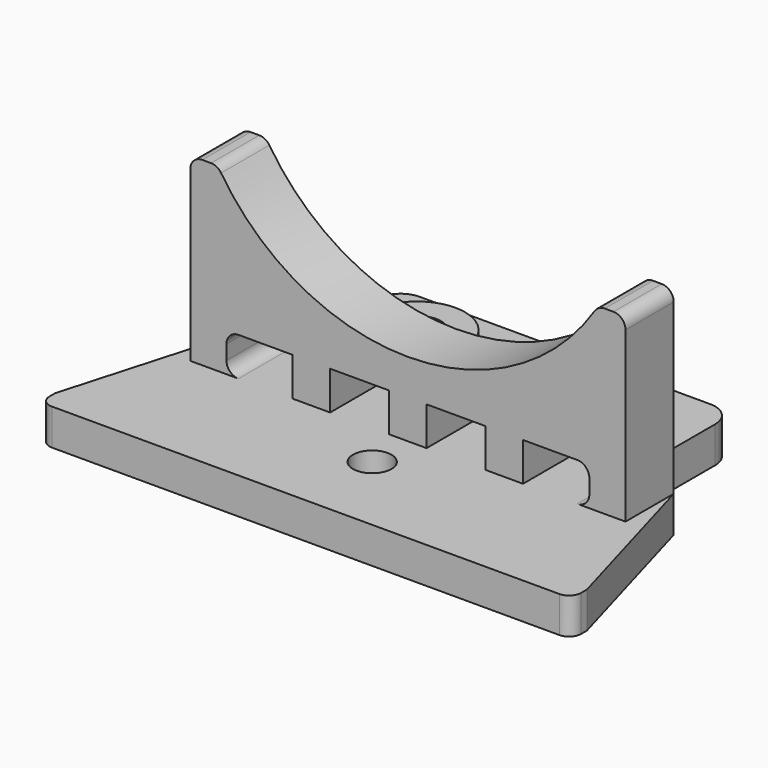
from build123d import *

# Parameters (mm, degrees)
CYLINDER006_R                   = 1.6
CYLINDER006_DEPTH               = 10
BOX007_W                        = 3.1
BOX007_H                        = 5
BOX007_DEPTH                    = 8
BOX009_W                        = 3.1
BOX009_H                        = 5
BOX009_DEPTH                    = 9
BOX010_W                        = 3.1
BOX010_H                        = 5
BOX010_DEPTH                    = 9
BOX012_W                        = 31
BOX012_H                        = 6
BOX012_DEPTH                    = 6
CYLINDER004_R                   = 21.5
CYLINDER004_DEPTH               = 10
BOX008_W                        = 30.1
BOX008_H                        = 5
BOX008_DEPTH                    = 18
FILLET001003_R                  = 1
FILLET001007_R                  = 1
CYLINDER003_R                   = 18.5
CYLINDER003_DEPTH               = 10
BOX005_W                        = 36.1
BOX005_H                        = 5
BOX005_DEPTH                    = 18
FILLET001004_R                  = 1
CYLINDER010_R                   = 2
CYLINDER010_DEPTH               = 4.5
CYLINDER011_R                   = 2
CYLINDER011_DEPTH               = 4.5
CYLINDER008_R                   = 4
CYLINDER008_DEPTH               = 4.5
BOX011_W                        = 28.1
BOX011_H                        = 12
BOX011_DEPTH                    = 3
FILLET001006_R                  = 2
CYLINDER009_R                   = 4
CYLINDER009_DEPTH               = 4.5
BOX006_W                        = 44.1
BOX006_H                        = 15.6
BOX006_DEPTH                    = 3
FILLET001005_R                  = 1
CHAMFER005021077002006002_SIZE2 = 14
CHAMFER005021077002006002_SIZE  = 4
CHAMFER005021077002006003_SIZE2 = 14
CHAMFER005021077002006003_SIZE  = 4


with BuildPart() as cylinder006:
    # Cylinder006 → Cylinder006 (new body)
    with BuildSketch(Plane(origin=(0, 20, 18), x_dir=(1, 0, 0), z_dir=(0, 0, 1))):
        Circle(CYLINDER006_R)
    extrude(amount=CYLINDER006_DEPTH)


with BuildPart() as cube007:
    # Box007 → Box007 (new body)
    with BuildSketch(Plane(origin=(-1.55, 13.5, 18), x_dir=(1, 0, 0), z_dir=(0, 0, 1))):
        with Locations((1.55, 2.5)):
            Rectangle(BOX007_W, BOX007_H)
    extrude(amount=BOX007_DEPTH)


with BuildPart() as cube009:
    # Box009 → Box009 (new body)
    with BuildSketch(Plane(origin=(-9.55, 13.5, 18), x_dir=(1, 0, 0), z_dir=(0, 0, 1))):
        with Locations((1.55, 2.5)):
            Rectangle(BOX009_W, BOX009_H)
    extrude(amount=BOX009_DEPTH)


with BuildPart() as fusion036012039011002025018010027010:
    # Box010 → Box010 (new body)
    with BuildSketch(Plane(origin=(6.45, 13.5, 18), x_dir=(1, 0, 0), z_dir=(0, 0, 1))):
        with Locations((1.55, 2.5)):
            Rectangle(BOX010_W, BOX010_H)
    extrude(amount=BOX010_DEPTH)

    # Fusion036012039011002025018010027010: union Cube007, Cube009
    add(cube007.part)
    add(cube009.part)


with BuildPart() as fusion036012039011002025018010027011:
    # Box012 → Box012 (new body)
    with BuildSketch(Plane(origin=(-15.5, 13.2, 24.2), x_dir=(1, 0, 0), z_dir=(0, 0, 1))):
        with Locations((15.5, 3)):
            Rectangle(BOX012_W, BOX012_H)
    extrude(amount=BOX012_DEPTH)

    # Fusion036012039011002025018010027011: union Fusion036012039011002025018010027010
    add(fusion036012039011002025018010027010.part)


with BuildPart() as cylinder004:
    # Cylinder004 → Cylinder004 (new body)
    with BuildSketch(Plane(origin=(0, 10.3, 45.66), x_dir=(1, 0, 0), z_dir=(0, 1, 0))):
        Circle(CYLINDER004_R)
    extrude(amount=CYLINDER004_DEPTH)


with BuildPart() as fillet001007:
    # Box008 → Box008 (new body)
    with BuildSketch(Plane(origin=(-15.05, 13.5, 21), x_dir=(1, 0, 0), z_dir=(0, 0, 1))):
        with Locations((15.05, 2.5)):
            Rectangle(BOX008_W, BOX008_H)
    extrude(amount=BOX008_DEPTH)

    # Cut003: cut Cylinder004
    add(cylinder004.part, mode=Mode.SUBTRACT)

    # Fillet001003
    fillet001003_edges = [fillet001007.edges().sort_by_distance(p)[0] for p in [
        (-15.05, 16, 30.305929),
        (-15.05, 16, 21),
        (15.05, 16, 30.305929),
        (15.05, 16, 21),
    ]]
    fillet(fillet001003_edges, radius=FILLET001003_R)

    # Cut005003: cut Fusion036012039011002025018010027011
    add(fusion036012039011002025018010027011.part, mode=Mode.SUBTRACT)

    # Fillet001007
    fillet001007_edges = [fillet001007.edges().sort_by_distance(p)[0] for p in [
        (-15.05, 16, 24.2),
        (15.05, 16, 24.2),
    ]]
    fillet(fillet001007_edges, radius=FILLET001007_R)


with BuildPart() as cylinder003:
    # Cylinder003 → Cylinder003 (new body)
    with BuildSketch(Plane(origin=(0, 10.3, 45.66), x_dir=(1, 0, 0), z_dir=(0, 1, 0))):
        Circle(CYLINDER003_R)
    extrude(amount=CYLINDER003_DEPTH)


with BuildPart() as cut005004:
    # Box005 → Box005 (new body)
    with BuildSketch(Plane(origin=(-18.05, 13.5, 18), x_dir=(1, 0, 0), z_dir=(0, 0, 1))):
        with Locations((18.05, 2.5)):
            Rectangle(BOX005_W, BOX005_H)
    extrude(amount=BOX005_DEPTH)

    # Cut002: cut Cylinder003
    add(cylinder003.part, mode=Mode.SUBTRACT)

    # Fillet001004
    fillet001004_edges = [cut005004.edges().sort_by_distance(p)[0] for p in [
        (-18.05, 16, 36),
        (-15.777655, 16, 36),
        (18.05, 16, 36),
        (15.777655, 16, 36),
    ]]
    fillet(fillet001004_edges, radius=FILLET001004_R)

    # Cut005004: cut Fillet001007
    add(fillet001007.part, mode=Mode.SUBTRACT)


with BuildPart() as cut005004_1:
    # Cut005004 placement: moved
    add(cut005004.part.moved(Location((0, 10.2, 0))))


with BuildPart() as cylinder010:
    # Cylinder010 → Cylinder010 (new body)
    with BuildSketch(Plane(origin=(7.5, 34, 18), x_dir=(1, 0, 0), z_dir=(0, 0, 1))):
        Circle(CYLINDER010_R)
    extrude(amount=CYLINDER010_DEPTH)


with BuildPart() as fusion036012039011002025018010027009:
    # Cylinder011 → Cylinder011 (new body)
    with BuildSketch(Plane(origin=(-7.5, 34, 18), x_dir=(1, 0, 0), z_dir=(0, 0, 1))):
        Circle(CYLINDER011_R)
    extrude(amount=CYLINDER011_DEPTH)

    # Fusion036012039011002025018010027009: union Cylinder010
    add(cylinder010.part)


with BuildPart() as cylinder008:
    # Cylinder008 → Cylinder008 (new body)
    with BuildSketch(Plane(origin=(-7.5, 34, 18), x_dir=(1, 0, 0), z_dir=(0, 0, 1))):
        Circle(CYLINDER008_R)
    extrude(amount=CYLINDER008_DEPTH)


with BuildPart() as fillet001006:
    # Box011 → Box011 (new body)
    with BuildSketch(Plane(origin=(-14.05, 28, 18), x_dir=(1, 0, 0), z_dir=(0, 0, 1))):
        with Locations((14.05, 6)):
            Rectangle(BOX011_W, BOX011_H)
    extrude(amount=BOX011_DEPTH)

    # Fillet001006
    fillet001006_edges = [fillet001006.edges().sort_by_distance(p)[0] for p in [
        (-14.05, 40, 19.5),
        (14.05, 40, 19.5),
    ]]
    fillet(fillet001006_edges, radius=FILLET001006_R)


with BuildPart() as cut005002:
    # Cylinder009 → Cylinder009 (new body)
    with BuildSketch(Plane(origin=(7.5, 34, 18), x_dir=(1, 0, 0), z_dir=(0, 0, 1))):
        Circle(CYLINDER009_R)
    extrude(amount=CYLINDER009_DEPTH)

    # Fusion036012039011002025018010027008: union Cylinder008, Fillet001006
    add(cylinder008.part)
    add(fillet001006.part)

    # Cut005002: cut Fusion036012039011002025018010027009
    add(fusion036012039011002025018010027009.part, mode=Mode.SUBTRACT)


with BuildPart() as cut005005:
    # Box006 → Box006 (new body)
    with BuildSketch(Plane(origin=(-22.05, 13.1, 18), x_dir=(1, 0, 0), z_dir=(0, 0, 1))):
        with Locations((22.05, 7.8)):
            Rectangle(BOX006_W, BOX006_H)
    extrude(amount=BOX006_DEPTH)

    # Fillet001005
    fillet001005_edges = [cut005005.edges().sort_by_distance(p)[0] for p in [
        (-22.05, 13.1, 19.5),
        (22.05, 13.1, 19.5),
    ]]
    fillet(fillet001005_edges, radius=FILLET001005_R)

    # Chamfer005021077002006002
    chamfer005021077002006002_edges = [cut005005.edges().sort_by_distance(p)[0] for p in [
        (22.05, 28.7, 19.5),
    ]]
    chamfer005021077002006002_side = cut005005.faces().sort_by_distance((0, 28.7, 19.5))[0]
    chamfer(chamfer005021077002006002_edges, length=CHAMFER005021077002006002_SIZE, length2=CHAMFER005021077002006002_SIZE2, reference=chamfer005021077002006002_side)

    # Chamfer005021077002006003
    chamfer005021077002006003_edges = [cut005005.edges().sort_by_distance(p)[0] for p in [
        (-22.05, 28.7, 19.5),
    ]]
    chamfer005021077002006003_side = cut005005.faces().sort_by_distance((-2, 28.7, 19.5))[0]
    chamfer(chamfer005021077002006003_edges, length=CHAMFER005021077002006003_SIZE, length2=CHAMFER005021077002006003_SIZE2, reference=chamfer005021077002006003_side)

    # Fusion036012039011002025018010027012: union Cut005004, Cut005002
    add(cut005004_1.part)
    add(cut005002.part)

    # Cut005005: cut Cylinder006
    add(cylinder006.part, mode=Mode.SUBTRACT)


solid = cut005005.part
